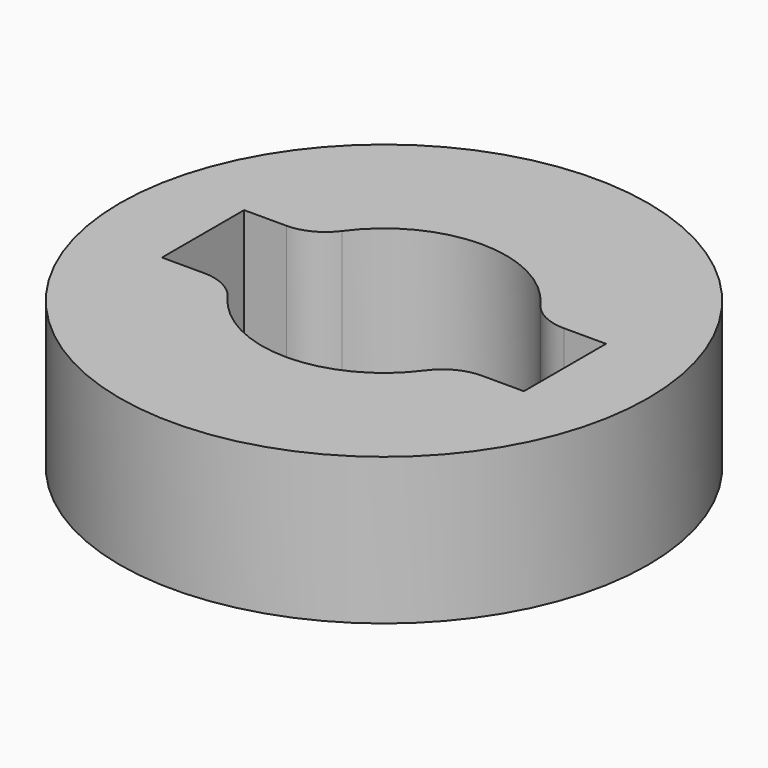
from build123d import *

# Parameters (mm, degrees)
F0_R     = 5.4
F1_DEPTH = 3


with BuildPart() as f1:
    # F0 (on Top) → F1 (new body)
    with BuildSketch(Plane.XY):
        Circle(F0_R)
        with BuildLine():
            ThreePointArc((-2.026294, 1.464286), (0, 2.5), (2.026294, 1.464286))
            ThreePointArc((2.026294, 1.464286), (2.381682, 1.159575), (2.836812, 1.05))
            Line((2.836812, 1.05), (3.7, 1.05))
            Line((3.7, 1.05), (3.7, -1.05))
            Line((3.7, -1.05), (2.836812, -1.05))
            ThreePointArc((2.836812, -1.05), (2.381682, -1.159575), (2.026294, -1.464286))
            ThreePointArc((2.026294, -1.464286), (0, -2.5), (-2.026294, -1.464286))
            ThreePointArc((-2.026294, -1.464286), (-2.381682, -1.159575), (-2.836812, -1.05))
            Line((-2.836812, -1.05), (-3.7, -1.05))
            Line((-3.7, -1.05), (-3.7, 1.05))
            Line((-3.7, 1.05), (-2.836812, 1.05))
            ThreePointArc((-2.836812, 1.05), (-2.381682, 1.159575), (-2.026294, 1.464286))
        make_face(mode=Mode.SUBTRACT)
    extrude(amount=F1_DEPTH)


solid = f1.part
